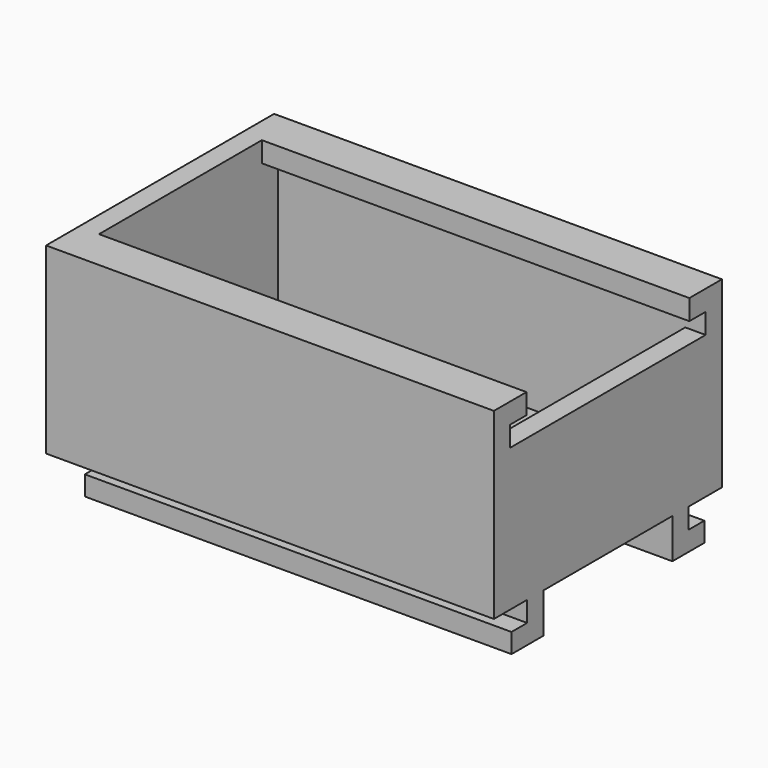
from build123d import *

# Parameters (mm, degrees)
F0_W      = 69.85
F0_H      = 44.45
F1_DEPTH  = 3.175
F2_W      = 69.85
F2_H      = 44.45
F2_W_2    = 63.5
F2_H_2    = 38.1
F3_DEPTH  = 25.4
F4_W      = 69.85
F4_H      = 3.175
F5_DEPTH  = 6.223
F6_W      = 69.85
F6_H      = 3.048
F7_DEPTH  = 3.048
F8_W      = 69.85
F8_H      = 3.048
F9_DEPTH  = 3.048
F10_W     = 63.5
F10_H     = 3.175
F11_DEPTH = 3.175
F12_W     = 63.5
F12_H     = 3.175
F13_DEPTH = 3.175
F14_W     = 31.75
F14_H     = 3.175
F15_DEPTH = 3.175
F16_W     = 3.302
F16_H     = 6.223
F17_DEPTH = 38.1


with BuildPart() as f1:
    # F0 (on Top) → F1 (new body)
    with BuildSketch(Plane.XY):
        with Locations((34.925, 22.225)):
            Rectangle(F0_W, F0_H)
    extrude(amount=F1_DEPTH)

    # F2 (on face) → F3 (join)
    with BuildSketch(Plane.XY.offset(3.175)):
        with Locations((34.925, 22.225)):
            Rectangle(F2_W, F2_H)
        with Locations((34.925, 22.225)):
            Rectangle(F2_W_2, F2_H_2, mode=Mode.SUBTRACT)
    extrude(amount=F3_DEPTH)

    # F4 (on face) → F5 (join)
    with BuildSketch(Plane(origin=(0, 0, 0), x_dir=(1, 0, 0), z_dir=(0, 0, -1))):
        with Locations((34.925, -8.0645)):
            Rectangle(F4_W, F4_H)
        with Locations((34.925, -36.3855)):
            Rectangle(F4_W, F4_H)
    extrude(amount=F5_DEPTH)

    # F6 (on face) → F7 (join)
    with BuildSketch(Plane.XZ.offset(-6.477)):
        with Locations((34.925, -4.699)):
            Rectangle(F6_W, F6_H)
    extrude(amount=F7_DEPTH)

    # F8 (on face) → F9 (join)
    with BuildSketch(Plane(origin=(0, 37.973, 0), x_dir=(-1, 0, 0), z_dir=(0, 1, 0))):
        with Locations((-34.925, -4.699)):
            Rectangle(F8_W, F8_H)
    extrude(amount=F9_DEPTH)

    # F10 (on face) → F11 (join)
    with BuildSketch(Plane(origin=(0, 3.175, 0), x_dir=(-1, 0, 0), z_dir=(0, 1, 0))):
        with Locations((-34.925, 26.9875)):
            Rectangle(F10_W, F10_H)
    extrude(amount=F11_DEPTH)

    # F12 (on face) → F13 (join)
    with BuildSketch(Plane.XZ.offset(-41.275)):
        with Locations((34.925, 26.9875)):
            Rectangle(F12_W, F12_H)
    extrude(amount=F13_DEPTH)

    # F14 (on face) → F15 (cut, through all)
    with BuildSketch(Plane.YZ.offset(69.85)):
        Polygon((38.1, 25.4), (6.35, 25.4), (3.175, 25.4), (3.175, 22.225), (41.275, 22.225), (41.275, 25.4), align=None)
        with Locations((22.225, 26.9875)):
            Rectangle(F14_W, F14_H)
    extrude(amount=-F15_DEPTH, mode=Mode.SUBTRACT)

    # F16 (on face) → F17 (cut)
    with BuildSketch(Plane.XZ.offset(-3.429)):
        with Locations((1.651, -3.1115)):
            Rectangle(F16_W, F16_H)
    extrude(amount=-F17_DEPTH, mode=Mode.SUBTRACT)


solid = f1.part
